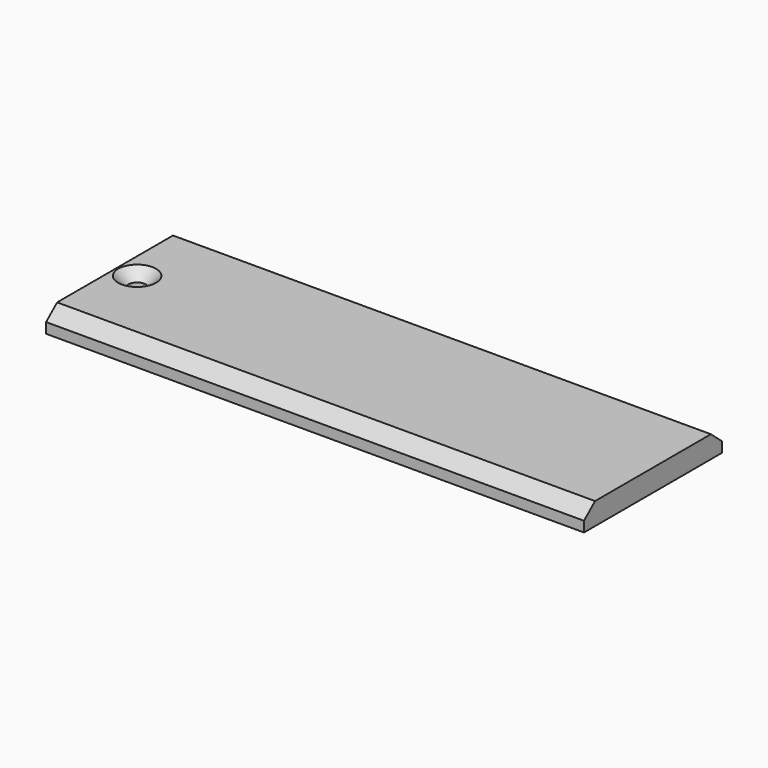
from build123d import *

# Parameters (mm, degrees)
PAD_DEPTH    = 78
SKETCH001_R  = 1.25
POCKET_DEPTH = 5
CHAMFER_SIZE = 1.5


with BuildPart() as part:
    # Sketch → Pad (new body)
    with BuildSketch(Plane.YZ):
        Polygon((0, 0), (25, 0), (25, 1.5), (23, 3.2), (2, 3.2), (0, 1.5), align=None)
    extrude(amount=PAD_DEPTH)

    # Sketch001 (on Face4 of Pad) → Pocket (cut)
    with BuildSketch(Plane(origin=(0, 0, 3.2), x_dir=(0, -1, 0), z_dir=(0, 0, 1))):
        with Locations((-12.75, 3)):
            Circle(SKETCH001_R)
    extrude(amount=-POCKET_DEPTH, mode=Mode.SUBTRACT)

    # Chamfer
    chamfer_edges = [part.edges().sort_by_distance(p)[0] for p in [
        (3, 14, 3.2),
    ]]
    chamfer(chamfer_edges, length=CHAMFER_SIZE)


solid = part.part
